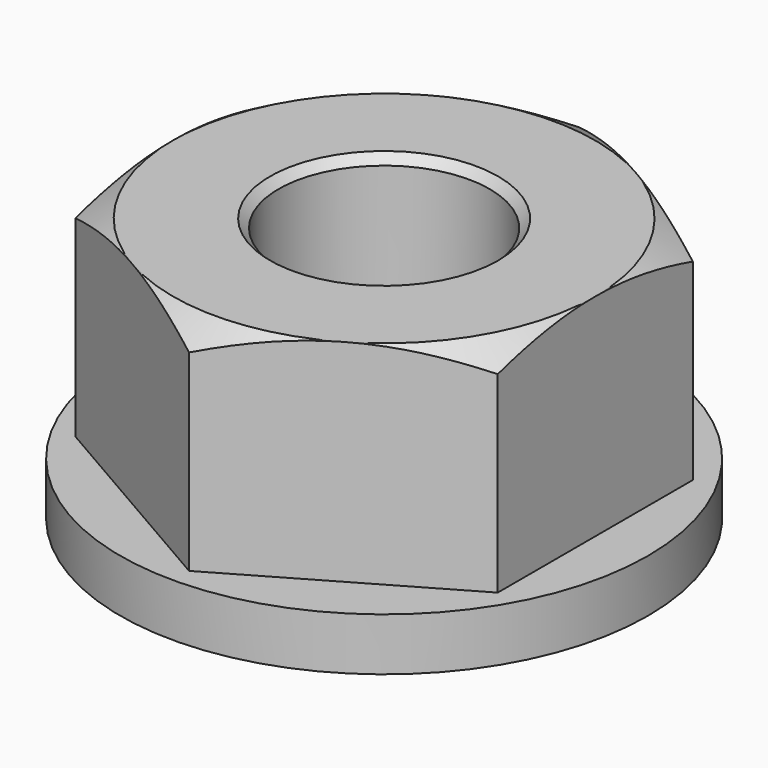
from build123d import *

# Parameters (mm, degrees)
F0_R     = 6.35
F1_DEPTH = 15.875
F4_R     = 15.875
F4_R_2   = 6.35
F5_DEPTH = 3.175
F6_SIZE  = 0.508


with BuildPart() as f1:
    # F0 (on Top) → F1 (new body)
    with BuildSketch(Plane.XY):
        Polygon((12.7, -7.332348), (12.7, 7.332348), (0, 14.664697), (-12.7, 7.332348), (-12.7, -7.332348), (0, -14.664697), align=None)
        Circle(F0_R, mode=Mode.SUBTRACT)
    extrude(amount=F1_DEPTH)

    # F2 (on Front) → F3 (revolve, cut)
    with BuildSketch(Plane.XZ):
        Polygon((16.705426, 15.875), (12.7, 15.875), (16.705426, 13.562466), align=None)
    revolve(axis=Axis((0, 0, 7.953254), (0, 0, -1)), mode=Mode.SUBTRACT)

    # F4 (on Top) → F5 (join)
    with BuildSketch(Plane.XY):
        Circle(F4_R)
        Circle(F4_R_2, mode=Mode.SUBTRACT)
    extrude(amount=F5_DEPTH)

    # F6
    f6_edges = [f1.edges().sort_by_distance(p)[0] for p in [
        (-6.35, 0, 0),
        (-6.35, 0, 15.875),
    ]]
    chamfer(f6_edges, length=F6_SIZE)


solid = f1.part
